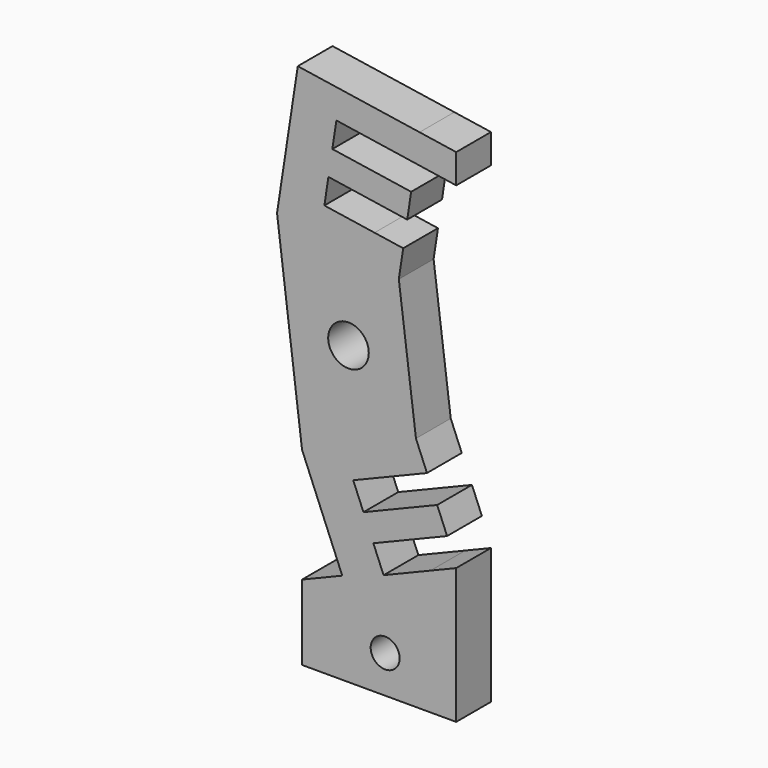
from build123d import *

# Parameters (mm, degrees)
F0_R     = 1
F0_R_2   = 1.4
F1_DEPTH = 3


with BuildPart() as f1:
    # F0 (on Front) → F1 (new body)
    with BuildSketch(Plane.XZ):
        Polygon((66.201438, -33.121341), (62.964357, -34.452247), (62.260879, -32.741219), (67.347719, -30.649795), (66.663254, -28.985011), (61.576413, -31.076434), (60.872934, -29.365406), (64.110014, -28.0345), (65.959775, -27.273983), (65.199257, -25.424222), (64.016773, -16.131517), (64.31804, -14.154337), (62.340861, -13.85307), (58.880797, -13.325852), (59.159469, -11.496961), (64.596712, -12.325446), (64.867853, -10.545985), (59.43061, -9.7175), (59.709282, -7.888609), (60.945019, -8.076901), (63.169346, -8.415827), (65.146525, -8.717094), (67.975146, -9.148098), (67.975146, -7.125014), (65.447792, -6.739915), (61.246286, -6.099722), (57.04478, -5.459529), (55.613761, -14.851131), (57.337776, -28.656422), (60.113665, -35.408047), (57.337776, -36.549337), (57.337776, -41.735669), (67.975146, -41.735669), (67.975146, -32.392092), align=None)
        with Locations((63.074746, -39.142503)):
            Circle(F0_R, mode=Mode.SUBTRACT)
        with Locations((60.54433, -21.285346)):
            Circle(F0_R_2, mode=Mode.SUBTRACT)
    extrude(amount=F1_DEPTH)


solid = f1.part
